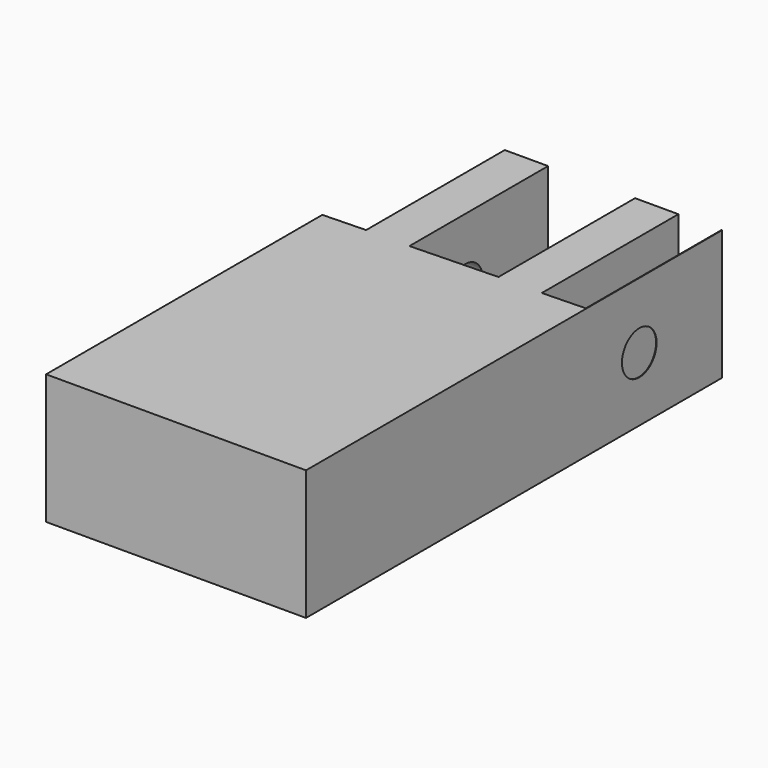
from build123d import *

# Parameters (mm, degrees)
F0_W     = 76.2
F0_H     = 38.1
F1_DEPTH = 76.2
F3_R     = 6.35
F4_DEPTH = 85.344
F6_DEPTH = 50.8


with BuildPart() as f1:
    # F0 (on Front) → F1 (new body, symmetric)
    with BuildSketch(Plane.XZ):
        with Locations((-179.678692, 19.05)):
            Rectangle(F0_W, F0_H)
    extrude(amount=F1_DEPTH, both=True)


with BuildPart() as f1_1:
    # F2: moved
    add(f1.part.moved(Location((141.732, 0, -12.446))))

    # F3 (on Right) → F4 (cut, symmetric)
    with BuildSketch(Plane.YZ):
        with Locations((45.916668, 6.35)):
            Circle(F3_R)
    extrude(amount=F4_DEPTH, both=True, mode=Mode.SUBTRACT)

    # F5 (on Top) → F6 (cut, symmetric)
    with BuildSketch(Plane.XY):
        Polygon((-63.508823, 25.400016), (-63.508823, 76.200016), (-76.920537, 76.956743), (-76.920537, 25.001949), align=None)
        Polygon((-25.313061, 76.956743), (-50.808823, 76.200016), (-50.808823, 25.400016), (-25.313061, 26.156743), align=None)
        Polygon((0, 76.200016), (-12.613061, 76.956743), (-12.613061, 26.156743), (0, 26.531105), align=None)
    extrude(amount=F6_DEPTH, both=True, mode=Mode.SUBTRACT)


solid = f1_1.part
